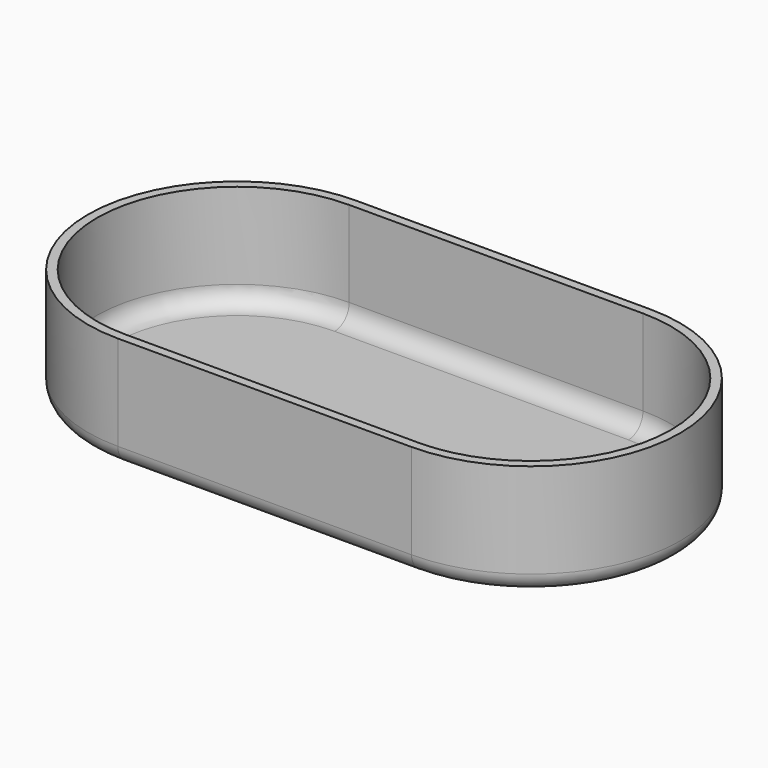
from build123d import *

# Parameters (mm, degrees)
PAD004_DEPTH   = 12.5
THICKNESS002_T = -1
FILLET006_R    = 2
FILLET007_R    = 2


with BuildPart() as part:
    # Sketch009 → Pad004 (new body)
    with BuildSketch(Plane.XY):
        with BuildLine():
            ThreePointArc((-83, 72.5), (-99.5, 56), (-83, 39.5))
            Line((-83, 39.5), (-50.5, 39.5))
            ThreePointArc((-50.5, 39.5), (-34, 56), (-50.5, 72.5))
            Line((-50.5, 72.5), (-83, 72.5))
        make_face()
    extrude(amount=PAD004_DEPTH)

    # Thickness002
    thickness002_openings = [part.faces().sort_by_distance(p)[0] for p in [
        (-66.75, 56, 12.5),
    ]]
    offset(amount=THICKNESS002_T, openings=thickness002_openings)

    # Fillet006
    fillet006_edges = [part.edges().sort_by_distance(p)[0] for p in [
        (-98.5, 56, 1),
        (-66.75, 40.5, 1),
        (-35, 56, 1),
        (-66.75, 71.5, 1),
    ]]
    fillet(fillet006_edges, radius=FILLET006_R)

    # Fillet007
    fillet007_edges = [part.edges().sort_by_distance(p)[0] for p in [
        (-99.5, 56, 0),
        (-66.75, 39.5, 0),
        (-34, 56, 0),
        (-66.75, 72.5, 0),
    ]]
    fillet(fillet007_edges, radius=FILLET007_R)


with BuildPart() as part_1:
    # Body004 placement: moved
    add(part.part.moved(Location((101, -59, 52))))


solid = part_1.part
